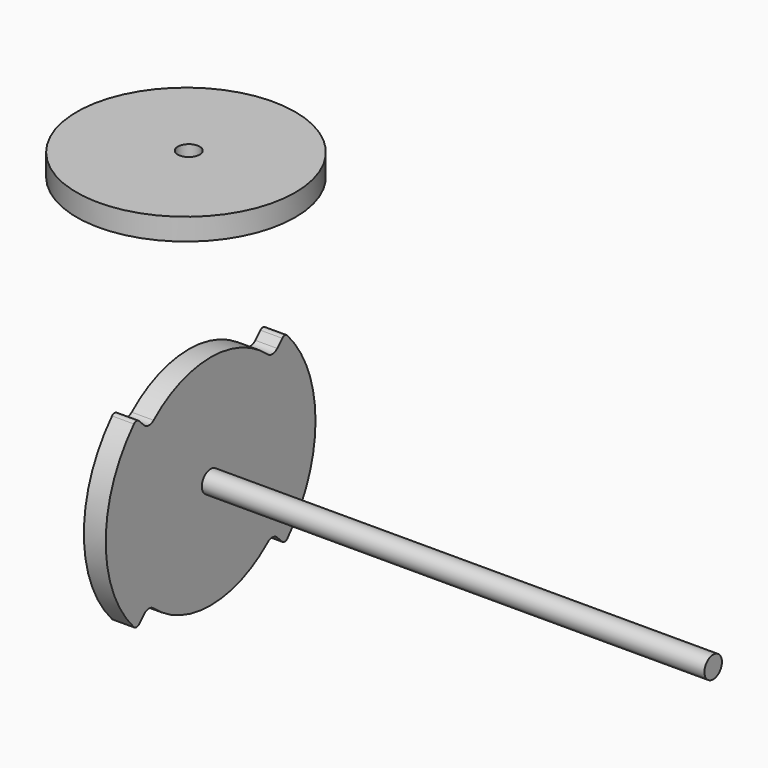
from build123d import *

# Parameters (mm, degrees)
F0_R     = 6.35
F1_DEPTH = 12.7
F2_R     = 2.54
F3_R     = 5.08
F5_DEPTH = 304.8
F6_R     = 63.5
F6_R_2   = 6.35
F7_DEPTH = 12.7


with BuildPart() as f1:
    # F0 (on Right) → F1 (new body)
    with BuildSketch(Plane.YZ):
        with BuildLine():
            ThreePointArc((53.881537, -53.881537), (70.39962, -29.160478), (76.2, 0))
            ThreePointArc((76.2, 0), (70.39962, 29.160478), (53.881537, 53.881537))
            Line((53.881537, 53.881537), (44.901281, 44.901281))
            ThreePointArc((44.901281, 44.901281), (0, 63.5), (-44.901281, 44.901281))
            Line((-44.901281, 44.901281), (-53.881537, 53.881537))
            ThreePointArc((-53.881537, 53.881537), (-76.2, 0), (-53.881537, -53.881537))
            Line((-53.881537, -53.881537), (-44.901281, -44.901281))
            ThreePointArc((-44.901281, -44.901281), (0, -63.5), (44.901281, -44.901281))
            Line((44.901281, -44.901281), (53.881537, -53.881537))
        make_face()
        Circle(F0_R, mode=Mode.SUBTRACT)
    extrude(amount=F1_DEPTH)

    # F2
    f2_edges = [f1.edges().sort_by_distance(p)[0] for p in [
        (6.35, -53.881537, 53.881537),
        (6.35, 53.881537, 53.881537),
        (6.35, -53.881537, -53.881537),
        (6.35, 53.881537, -53.881537),
    ]]
    fillet(f2_edges, radius=F2_R)

    # F3
    f3_edges = [f1.edges().sort_by_distance(p)[0] for p in [
        (6.35, -44.901281, -44.901281),
        (6.35, 44.901281, -44.901281),
        (6.35, 44.901281, 44.901281),
        (6.35, -44.901281, 44.901281),
    ]]
    fillet(f3_edges, radius=F3_R)


with BuildPart() as f5:
    # F0 (on Right) → F5 (new body)
    with BuildSketch(Plane.YZ):
        Circle(F0_R)
    extrude(amount=F5_DEPTH)


with BuildPart() as f7:
    # F6 (on offset) → F7 (new body)
    with BuildSketch(Plane.XY.offset(152.4)):
        with Locations((0, -2.009471)):
            Circle(F6_R)
        Circle(F6_R_2, mode=Mode.SUBTRACT)
    extrude(amount=F7_DEPTH)


solid = Compound([f1.part, f5.part, f7.part])
